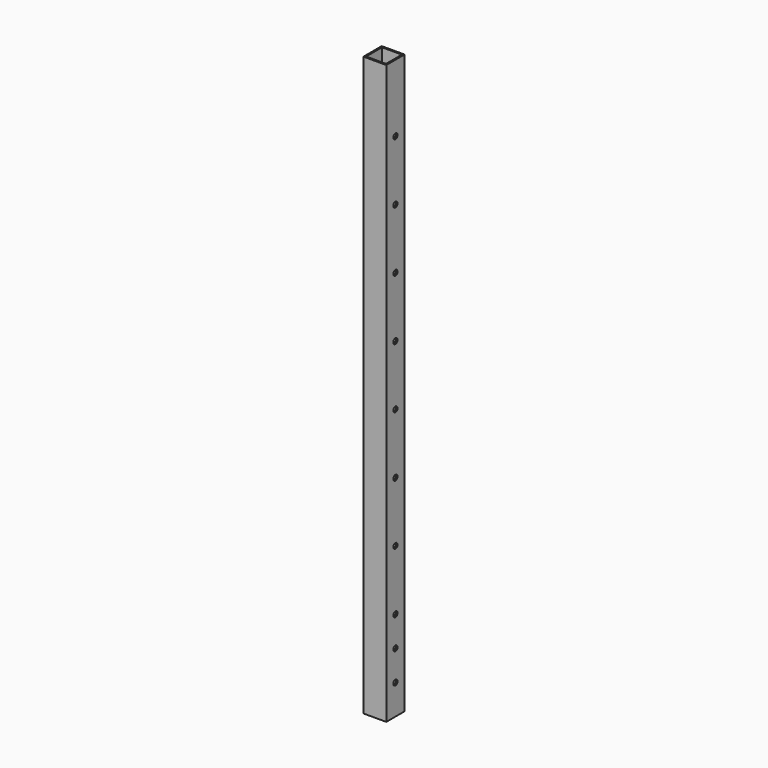
from build123d import *

# Parameters (mm, degrees)
F0_W     = 38
F0_H     = 38
F0_W_2   = 33
F0_H_2   = 33
F1_DEPTH = 962
F3_D     = 8.8


with BuildPart() as f1:
    # F0 (on Top) → F1 (new body)
    with BuildSketch(Plane.XY):
        Rectangle(F0_W, F0_H)
        Rectangle(F0_W_2, F0_H_2, mode=Mode.SUBTRACT)
    extrude(amount=F1_DEPTH)

    # F3 (through all)
    with Locations(Plane(origin=(-19, 0, 0), x_dir=(0, -1, 0), z_dir=(-1, 0, 0))):
        with Locations((0, 250), (0, 350), (0, 450), (0, 150), (0, 100), (0, 50), (0, 550), (0, 750), (0, 650), (0, 850)):
            Hole(F3_D / 2)


solid = f1.part
